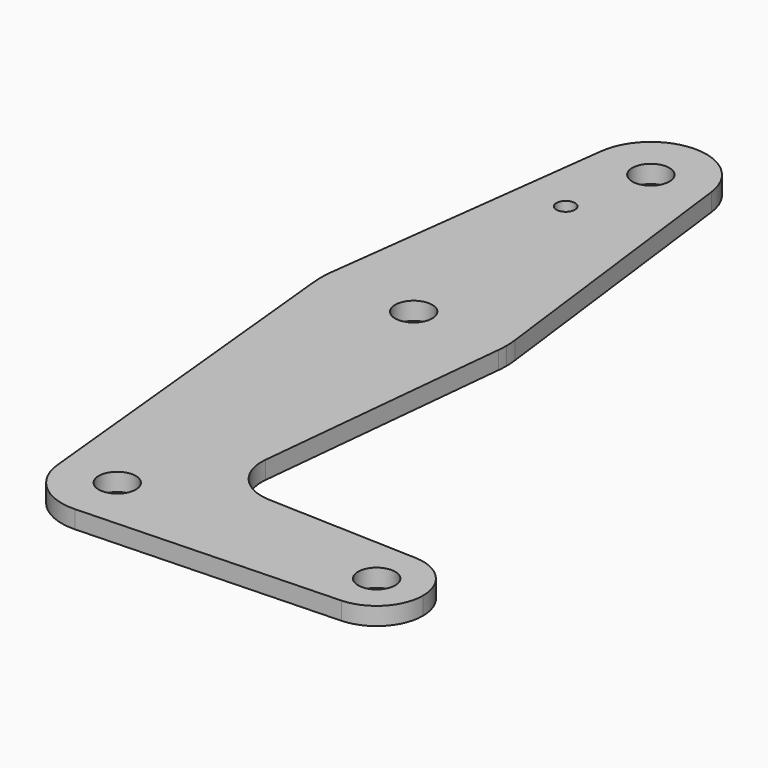
from build123d import *

# Parameters (mm, degrees)
F0_R     = 3.175
F0_R_2   = 1.5875
F1_DEPTH = 3.048


with BuildPart() as f1:
    # F0 (on Top) → F1 (new body)
    with BuildSketch(Plane.XY):
        with BuildLine():
            ThreePointArc((9.450293, 115.490625), (0, 123.825), (-9.450293, 115.490625))
            ThreePointArc((-9.450293, 115.490625), (-0.596483, 104.793695), (9.525, 114.3))
            ThreePointArc((9.525, 114.3), (9.506305, 114.896483), (9.450293, 115.490625))
        make_face()
        with Locations((0, 114.3)):
            Circle(F0_R, mode=Mode.SUBTRACT)
        with BuildLine():
            Line((-9.450293, 115.490625), (-15.750488, 65.484375))
            ThreePointArc((-15.750488, 65.484375), (1e-06, 79.375), (15.750488, 65.484374))
            Line((15.750488, 65.484374), (9.450293, 115.490625))
            ThreePointArc((9.450293, 115.490625), (9.506305, 114.896483), (9.525, 114.3))
            ThreePointArc((9.525, 114.3), (-0.596483, 104.793695), (-9.450293, 115.490625))
        make_face()
        with Locations((-3.175, 100.0252)):
            Circle(F0_R_2, mode=Mode.SUBTRACT)
        with BuildLine():
            ThreePointArc((-15.750488, 65.484375), (-15.873744, 63.699705), (-15.795426, 61.9125))
            ThreePointArc((-15.795426, 61.9125), (0, 47.625), (15.795426, 61.9125))
            ThreePointArc((15.795426, 61.9125), (15.855094, 62.705253), (15.875, 63.5))
            ThreePointArc((15.875, 63.5), (15.843842, 64.494138), (15.750488, 65.484374))
            ThreePointArc((15.750488, 65.484374), (1e-06, 79.375), (-15.750488, 65.484375))
        make_face()
        with Locations((0, 63.5)):
            Circle(F0_R, mode=Mode.SUBTRACT)
        with BuildLine():
            ThreePointArc((44.733482, 7.932436), (36.5125, 0), (44.733482, -7.932436))
            ThreePointArc((44.733482, -7.932436), (50.162007, -5.511523), (52.3875, 0))
            ThreePointArc((52.3875, 0), (50.162007, 5.511523), (44.733482, 7.932436))
        make_face()
        with Locations((44.45, 0)):
            Circle(F0_R, mode=Mode.SUBTRACT)
        with BuildLine():
            ThreePointArc((0.340179, -9.518923), (6.854408, -6.613827), (9.525, 0))
            ThreePointArc((9.525, 0), (-0.476848, 9.513056), (-9.477255, -0.9525))
            ThreePointArc((-9.477255, -0.9525), (-6.262383, -7.17692), (0.340179, -9.518923))
        make_face()
        Circle(F0_R, mode=Mode.SUBTRACT)
        with BuildLine():
            ThreePointArc((-9.477255, -0.9525), (-0.476848, 9.513056), (9.525, 0))
            ThreePointArc((9.525, 0), (6.854408, -6.613827), (0.340179, -9.518923))
            Line((0.340179, -9.518923), (44.733482, -7.932436))
            ThreePointArc((44.733482, -7.932436), (36.5125, 0), (44.733482, 7.932436))
            Line((44.733482, 7.932436), (18.9676, 8.853234))
            ThreePointArc((18.9676, 8.853234), (13.2612, 11.571359), (11.341187, 17.593382))
            Line((11.341187, 17.593382), (15.795426, 61.9125))
            ThreePointArc((15.795426, 61.9125), (0, 47.625), (-15.795426, 61.9125))
            Line((-15.795426, 61.9125), (-9.477255, -0.9525))
        make_face()
    extrude(amount=F1_DEPTH)


solid = f1.part
